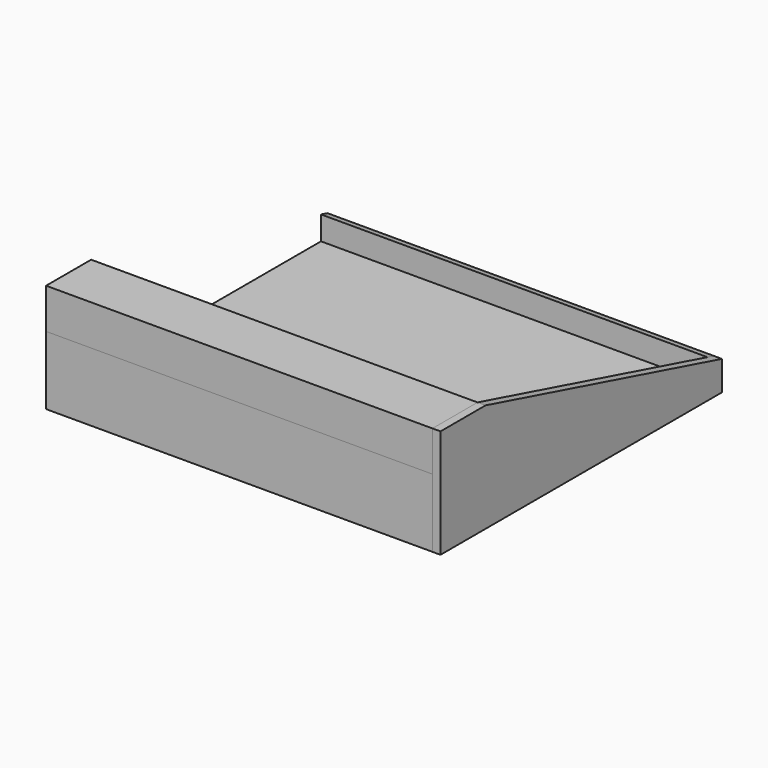
from build123d import *

# Parameters (mm, degrees)
F1_DEPTH  = 12.7
F3_DEPTH  = 609.6
F4_W      = 88.9
F4_H      = 63.5
F5_DEPTH  = 609.6
F6_W      = 12.7
F6_H      = 107.95
F7_DEPTH  = 609.6
F8_W      = 609.6
F8_H      = 529.7542
F9_DEPTH  = 12.7
F10_W     = 584.2
F10_H     = 12.7
F11_DEPTH = 12.7
F13_DEPTH = 584.2


with BuildPart() as f1:
    # F0 (on Right) → F1 (new body)
    with BuildSketch(Plane.YZ):
        Polygon((-337.647018, 18.824673), (217.408786, 18.824673), (217.408786, 65.368602), (-248.747018, 190.274673), (-337.647018, 190.274673), align=None)
    extrude(amount=-F1_DEPTH)


with BuildPart() as f3:
    # F2 (on face) → F3 (new body)
    with BuildSketch(Plane(origin=(-12.7, 0, 0), x_dir=(0, -1, 0), z_dir=(-1, 0, 0))):
        Polygon((-217.408786, 65.368602), (-217.408786, 18.824673), (-204.708786, 18.824673), (-204.708786, 68.771557), align=None)
    extrude(amount=F3_DEPTH)


with BuildPart() as f5:
    # F4 (on face) → F5 (new body)
    with BuildSketch(Plane(origin=(-12.7, 0, 0), x_dir=(0, -1, 0), z_dir=(-1, 0, 0))):
        with Locations((293.197018, 158.524673)):
            Rectangle(F4_W, F4_H)
    extrude(amount=F5_DEPTH)


with BuildPart() as f7:
    # F6 (on face) → F7 (new body)
    with BuildSketch(Plane(origin=(-12.7, 0, 0), x_dir=(0, -1, 0), z_dir=(-1, 0, 0))):
        with Locations((331.297018, 72.799673)):
            Rectangle(F6_W, F6_H)
    extrude(amount=F7_DEPTH)


with BuildPart() as f9:
    # F8 (on face) → F9 (new body)
    with BuildSketch(Plane(origin=(0, 0, 18.824673), x_dir=(1, 0, 0), z_dir=(0, 0, -1))):
        with Locations((-317.5, 60.36831)):
            Rectangle(F8_W, F8_H)
    extrude(amount=-F9_DEPTH)


with BuildPart() as f11:
    # F10 (on face) → F11 (new body)
    with BuildSketch(Plane(origin=(0, -248.747018, 0), x_dir=(-1, 0, 0), z_dir=(0, 1, 0))):
        with Locations((317.5, 177.574673)):
            Rectangle(F10_W, F10_H)
    extrude(amount=F11_DEPTH)

    # F12 (on face) → F13 (cut, through all)
    with BuildSketch(Plane(origin=(-609.6, 0, 0), x_dir=(0, -1, 0), z_dir=(-1, 0, 0))):
        Polygon((236.047018, 180.521719), (248.747018, 183.924673), (236.047018, 183.924673), align=None)
    extrude(amount=-F13_DEPTH, mode=Mode.SUBTRACT)


solid = Compound([f1.part, f3.part, f5.part, f7.part, f9.part, f11.part])
